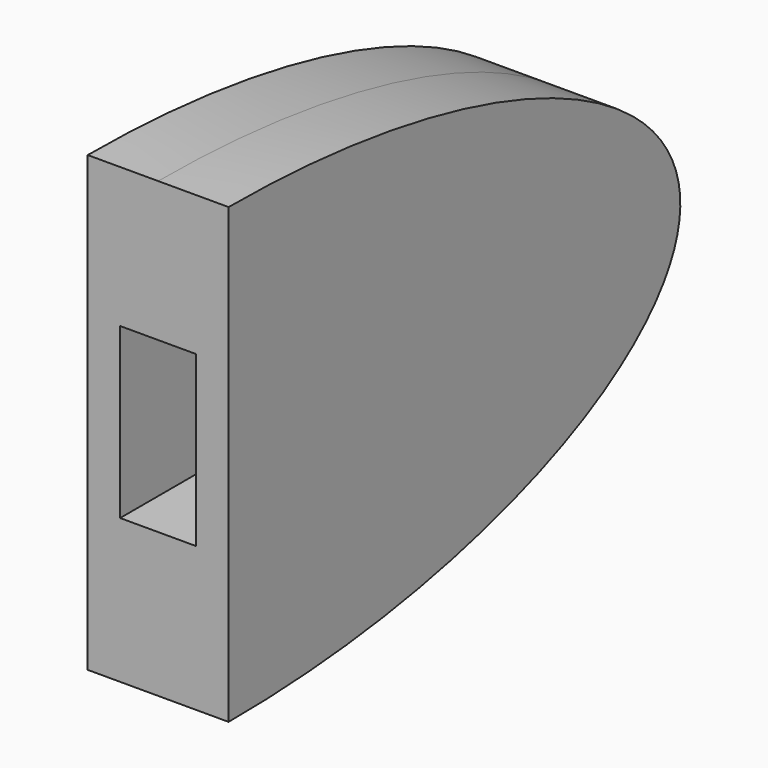
from build123d import *

# Parameters (mm, degrees)
F1_DEPTH = 2.5
F2_W     = 2.7
F2_H     = 6
F3_DEPTH = 6


with BuildPart() as f1:
    # F0 (on Right) → F1 (new body, symmetric)
    with BuildSketch(Plane.YZ):
        with BuildLine():
            Line((0, 13.2649390478), (0, -2.820698248))
            add(Edge.make_bspline(
                [(0, -2.820698248), (20.0394243002, -2.820698248), (20.0394243002, 5.2221203999), (20.0394243002, 13.2649390478), (0, 13.2649390478)],
                knots=[4.7123889804, 4.7123889804, 4.7123889804, 6.2831853072, 6.2831853072, 7.853981634, 7.853981634, 7.853981634], degree=2, weights=[1, 0.7071067812, 1, 0.7071067812, 1]))
        make_face()
    extrude(amount=F1_DEPTH, both=True)

    # F2 (on Front) → F3 (cut)
    with BuildSketch(Plane.XZ):
        with Locations((0, 5.2974992432)):
            Rectangle(F2_W, F2_H)
    extrude(amount=-F3_DEPTH, mode=Mode.SUBTRACT)


solid = f1.part
